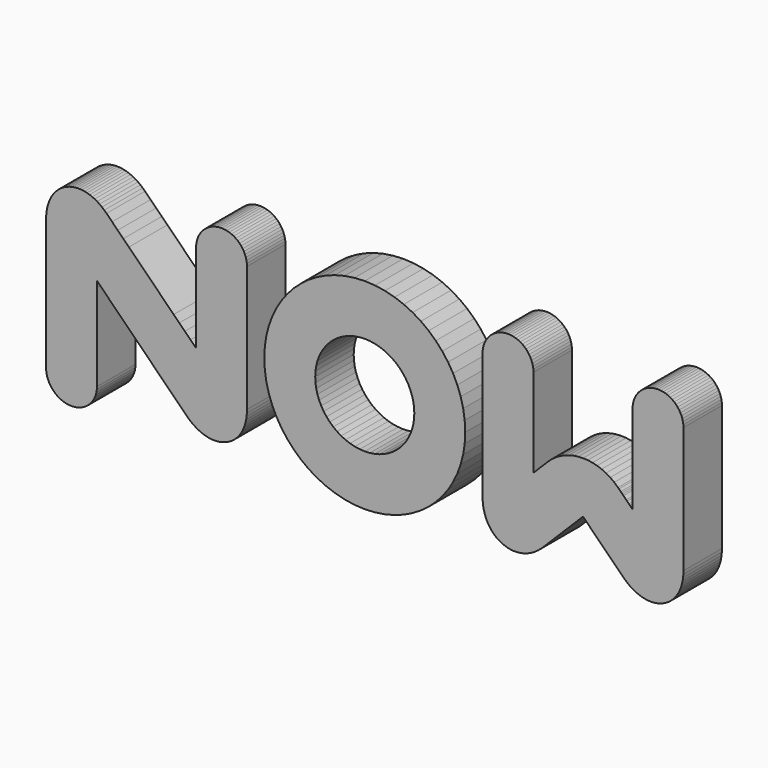
from build123d import *

# Parameters (mm, degrees)
F1_DEPTH = 1


with BuildPart() as f1:
    # F0 (on Front) → F1 (new body)
    with BuildSketch(Plane.XZ):
        Polygon((2.077737, 0.260535), (2.046042, 0.467585), (1.994365, 0.667573), (1.924085, 0.859465), (1.835891, 1.042055), (1.73116, 1.214138), (1.610926, 1.374851), (1.476223, 1.523335), (1.327739, 1.65821), (1.166853, 1.778616), (0.994599, 1.883347), (0.812009, 1.97137), (0.620461, 2.04165), (0.420301, 2.093154), (0.213251, 2.124849), (0, 2.135701), (-0.213252, 2.124849), (-0.420302, 2.093154), (-0.62029, 2.04165), (-0.812182, 1.97137), (-0.994599, 1.883347), (-1.166854, 1.778616), (-1.32774, 1.65821), (-1.476052, 1.523335), (-1.610927, 1.374851), (-1.731161, 1.214138), (-1.835892, 1.042055), (-1.924086, 0.859465), (-1.994366, 0.667573), (-2.04587, 0.467585), (-2.077565, 0.260535), (-2.088417, 0.047284), (-2.077565, -0.165795), (-2.04587, -0.37319), (-1.994366, -0.573006), (-1.924086, -0.764898), (-1.835892, -0.947488), (-1.731161, -1.119398), (-1.610927, -1.280284), (-1.476052, -1.428767), (-1.32774, -1.563815), (-1.166854, -1.684049), (-0.994599, -1.78878), (-0.812182, -1.87663), (-0.62029, -1.94691), (-0.420302, -1.998586), (-0.213252, -2.030281), (0, -2.041305), (0.213251, -2.030281), (0.420301, -1.998586), (0.620461, -1.94691), (0.812009, -1.87663), (0.994599, -1.78878), (1.166853, -1.684049), (1.327739, -1.563815), (1.476223, -1.428767), (1.610926, -1.280284), (1.73116, -1.119398), (1.835891, -0.947488), (1.924085, -0.764898), (1.994365, -0.573006), (2.046042, -0.37319), (2.077737, -0.165795), (2.088416, 0.047284), align=None)
        Polygon((1.030083, 0.047284), (1.024915, -0.057964), (1.009068, -0.160283), (0.983574, -0.258813), (0.949123, -0.353209), (0.905715, -0.44347), (0.854039, -0.528219), (0.794439, -0.607457), (0.727948, -0.680493), (0.654912, -0.747328), (0.575675, -0.806583), (0.490237, -0.85826), (0.400664, -0.901668), (0.305924, -0.936463), (0.207222, -0.961612), (0.105075, -0.97746), (0, -0.982972), (-0.105076, -0.97746), (-0.207223, -0.961612), (-0.305925, -0.936463), (-0.400493, -0.901668), (-0.49041, -0.85826), (-0.575504, -0.806583), (-0.654913, -0.747328), (-0.727949, -0.680493), (-0.794439, -0.607457), (-0.853867, -0.528219), (-0.905544, -0.44347), (-0.948952, -0.353209), (-0.983575, -0.258813), (-1.009069, -0.160283), (-1.024744, -0.057964), (-1.030084, 0.047284), (-1.024744, 0.152531), (-1.009069, 0.254679), (-0.983575, 0.353208), (-0.948952, 0.447776), (-0.905544, 0.537865), (-0.853867, 0.622787), (-0.794439, 0.702024), (-0.727949, 0.775232), (-0.654913, 0.841723), (-0.575504, 0.901151), (-0.49041, 0.952827), (-0.400493, 0.996235), (-0.305925, 1.031031), (-0.207223, 1.056352), (-0.105076, 1.072027), (0, 1.077367), (0.105075, 1.072027), (0.207222, 1.056352), (0.305924, 1.031031), (0.400664, 0.996235), (0.490237, 0.952827), (0.575675, 0.901151), (0.654912, 0.841723), (0.727948, 0.775232), (0.794439, 0.702024), (0.854039, 0.622787), (0.905715, 0.537865), (0.949123, 0.447776), (0.983574, 0.353208), (1.009068, 0.254679), (1.024915, 0.152531), align=None, mode=Mode.SUBTRACT)
        Polygon((-2.451875, 1.660794), (-2.459799, 1.713332), (-2.47289, 1.763975), (-2.490804, 1.812551), (-2.513025, 1.858887), (-2.539553, 1.902468), (-2.570042, 1.94312), (-2.604148, 1.980671), (-2.6417, 2.014778), (-2.682524, 2.045267), (-2.726104, 2.071794), (-2.772269, 2.094187), (-2.820845, 2.111929), (-2.87166, 2.125021), (-2.924197, 2.132945), (-2.978285, 2.135701), (-3.032373, 2.132945), (-3.084911, 2.125021), (-3.135726, 2.111929), (-3.184302, 2.094187), (-3.230466, 2.071794), (-3.274047, 2.045267), (-3.314871, 2.014778), (-3.352423, 1.980671), (-3.386529, 1.94312), (-3.417018, 1.902468), (-3.443546, 1.858887), (-3.465766, 1.812551), (-3.483681, 1.763975), (-3.496772, 1.713332), (-3.504696, 1.660794), (-3.507452, 1.606534), (-3.507452, 1.49164), (-3.507452, 1.376574), (-3.507452, 1.261508), (-3.507452, 1.146441), (-3.507452, 1.031375), (-3.507452, 0.916309), (-3.507452, 0.801243), (-3.507452, 0.686177), (-3.507452, 0.571111), (-3.507452, 0.456044), (-3.507452, 0.340978), (-3.507452, 0.225912), (-3.507452, 0.110846), (-3.507452, -0.00422), (-3.507452, -0.119287), (-3.507624, -0.234353), (-3.623896, -0.117909), (-3.740341, -0.001809), (-3.856613, 0.114635), (-3.972885, 0.23108), (-4.089329, 0.347524), (-4.205601, 0.463796), (-4.321873, 0.580068), (-4.438317, 0.696512), (-4.554761, 0.812956), (-4.671033, 0.929228), (-4.787305, 1.0455), (-4.903749, 1.161944), (-5.020194, 1.278216), (-5.136466, 1.394488), (-5.252738, 1.510933), (-5.369182, 1.627205), (-5.41638, 1.671646), (-5.464783, 1.712298), (-5.514393, 1.748816), (-5.564863, 1.781373), (-5.616367, 1.809795), (-5.668388, 1.834255), (-5.721098, 1.854581), (-5.774153, 1.870601), (-5.827379, 1.882486), (-5.880778, 1.890238), (-5.934177, 1.89351), (-5.987404, 1.892649), (-6.040286, 1.887309), (-6.092652, 1.877663), (-6.1445, 1.863366), (-6.195488, 1.844762), (-6.244753, 1.821852), (-6.291434, 1.795325), (-6.335359, 1.765181), (-6.376528, 1.731591), (-6.414768, 1.694556), (-6.45008, 1.654593), (-6.482464, 1.611357), (-6.511748, 1.565193), (-6.53793, 1.516445), (-6.56084, 1.464768), (-6.580305, 1.41068), (-6.596497, 1.354181), (-6.609416, 1.29527), (-6.618546, 1.234464), (-6.624058, 1.171591), (-6.625953, 1.106651), (-6.625953, 0.93698), (-6.625953, 0.767481), (-6.625953, 0.597982), (-6.625953, 0.428311), (-6.625953, 0.25864), (-6.625953, 0.089142), (-6.625953, -0.080357), (-6.625953, -0.249856), (-6.625953, -0.419699), (-6.625953, -0.589198), (-6.625953, -0.758696), (-6.625953, -0.92854), (-6.625953, -1.098038), (-6.625953, -1.267537), (-6.625953, -1.437036), (-6.625953, -1.606534), (-6.623196, -1.660967), (-6.615273, -1.713332), (-6.602181, -1.76432), (-6.584267, -1.812551), (-6.562046, -1.85906), (-6.535519, -1.902813), (-6.50503, -1.943465), (-6.470923, -1.980672), (-6.433372, -2.015123), (-6.392547, -2.045439), (-6.348967, -2.071967), (-6.302803, -2.09436), (-6.254227, -2.112274), (-6.203412, -2.125366), (-6.150874, -2.132945), (-6.096786, -2.135701), (-6.042698, -2.132945), (-5.99016, -2.125366), (-5.939345, -2.112274), (-5.890769, -2.09436), (-5.844605, -2.071967), (-5.801024, -2.045439), (-5.7602, -2.015123), (-5.722649, -1.980672), (-5.688542, -1.943465), (-5.658053, -1.902813), (-5.631526, -1.85906), (-5.609305, -1.812551), (-5.59139, -1.76432), (-5.578299, -1.713332), (-5.570375, -1.660967), (-5.567619, -1.606534), (-5.567619, -1.485611), (-5.567619, -1.364689), (-5.567619, -1.243766), (-5.567619, -1.122843), (-5.567619, -1.00192), (-5.567619, -0.880997), (-5.567619, -0.75973), (-5.567619, -0.638807), (-5.567619, -0.517884), (-5.567619, -0.396961), (-5.567619, -0.276038), (-5.567619, -0.154771), (-5.567619, -0.033848), (-5.567619, 0.087075), (-5.567619, 0.207997), (-5.567447, 0.32892), (-5.451175, 0.212476), (-5.334731, 0.096204), (-5.218459, -0.020068), (-5.102187, -0.136512), (-4.985743, -0.252956), (-4.869471, -0.369056), (-4.753199, -0.4855), (-4.636754, -0.601944), (-4.52031, -0.718389), (-4.404038, -0.834833), (-4.287766, -0.950933), (-4.171322, -1.067377), (-4.054878, -1.183477), (-3.938606, -1.299921), (-3.822334, -1.416365), (-3.70589, -1.532809), (-3.658692, -1.577251), (-3.610288, -1.617559), (-3.560679, -1.654077), (-3.510036, -1.68715), (-3.458704, -1.715399), (-3.406511, -1.740204), (-3.353801, -1.760186), (-3.300746, -1.776378), (-3.247347, -1.788435), (-3.193948, -1.796015), (-3.140549, -1.799115), (-3.087323, -1.798082), (-3.034441, -1.792569), (-2.982247, -1.782923), (-2.930571, -1.768798), (-2.879583, -1.750195), (-2.830319, -1.727113), (-2.783638, -1.70093), (-2.739713, -1.670613), (-2.698544, -1.636851), (-2.660303, -1.599989), (-2.624991, -1.560026), (-2.592607, -1.516962), (-2.563324, -1.470798), (-2.537141, -1.421877), (-2.514231, -1.370201), (-2.494766, -1.316113), (-2.478574, -1.259613), (-2.465655, -1.200702), (-2.456526, -1.140068), (-2.451014, -1.077023), (-2.449119, -1.011911), (-2.449119, -0.848269), (-2.449119, -0.684627), (-2.449119, -0.520985), (-2.449119, -0.357343), (-2.449119, -0.193701), (-2.449119, -0.030059), (-2.449119, 0.133583), (-2.449119, 0.297225), (-2.449119, 0.460867), (-2.449119, 0.62451), (-2.449119, 0.788152), (-2.449119, 0.951794), (-2.449119, 1.115436), (-2.449119, 1.279078), (-2.449119, 1.44272), (-2.449119, 1.606534), align=None)
        Polygon((6.625952, 1.606534), (6.623196, 1.660794), (6.615272, 1.713332), (6.602181, 1.763975), (6.584266, 1.812551), (6.561873, 1.858887), (6.53569, 1.902468), (6.505029, 1.94312), (6.470922, 1.980671), (6.433371, 2.014778), (6.392374, 2.045267), (6.348966, 2.071794), (6.302802, 2.094187), (6.254226, 2.111929), (6.203583, 2.125021), (6.150873, 2.132945), (6.096785, 2.135701), (6.042697, 2.132945), (5.989987, 2.125021), (5.939344, 2.111929), (5.890768, 2.094187), (5.844604, 2.071794), (5.801196, 2.045267), (5.760199, 2.014778), (5.722648, 1.980671), (5.688541, 1.94312), (5.65788, 1.902468), (5.631697, 1.858887), (5.609304, 1.812551), (5.59139, 1.763975), (5.578298, 1.713332), (5.570374, 1.660794), (5.567618, 1.606534), (5.567618, 1.49164), (5.567618, 1.376574), (5.567618, 1.261508), (5.567618, 1.146441), (5.567618, 1.031375), (5.567618, 0.916309), (5.567618, 0.801243), (5.567618, 0.686177), (5.567618, 0.571111), (5.567618, 0.456044), (5.567618, 0.340978), (5.567618, 0.225912), (5.567618, 0.110846), (5.567618, -0.00422), (5.567618, -0.119287), (5.567618, -0.234353), (5.54867, -0.215405), (5.529722, -0.196457), (5.510774, -0.177509), (5.491826, -0.158905), (5.472878, -0.139957), (5.45393, -0.121009), (5.435327, -0.102061), (5.416379, -0.083113), (5.397431, -0.064165), (5.378483, -0.045217), (5.359535, -0.026614), (5.340931, -0.007666), (5.321983, 0.011283), (5.303035, 0.030231), (5.284087, 0.049179), (5.265139, 0.067954), (5.18728, 0.138407), (5.103909, 0.199729), (5.016403, 0.251406), (4.924764, 0.293608), (4.830712, 0.326509), (4.73425, 0.350108), (4.636065, 0.364233), (4.537535, 0.368883), (4.439005, 0.364233), (4.34082, 0.350108), (4.244357, 0.326509), (4.150306, 0.293608), (4.058667, 0.251406), (3.971161, 0.199729), (3.88779, 0.138407), (3.809931, 0.067954), (3.790983, 0.049179), (3.772035, 0.030231), (3.753087, 0.011283), (3.734139, -0.007666), (3.715535, -0.026614), (3.696587, -0.045217), (3.677639, -0.064165), (3.658691, -0.083113), (3.639743, -0.102061), (3.620795, -0.121009), (3.601847, -0.139957), (3.583243, -0.158905), (3.564295, -0.177509), (3.545347, -0.196457), (3.526399, -0.215405), (3.507451, -0.234353), (3.507451, -0.119287), (3.507451, -0.00422), (3.507451, 0.110846), (3.507451, 0.225912), (3.507451, 0.340978), (3.507451, 0.456044), (3.507451, 0.571111), (3.507451, 0.686177), (3.507451, 0.801243), (3.507451, 0.916309), (3.507451, 1.031375), (3.507451, 1.146441), (3.507451, 1.261508), (3.507451, 1.376574), (3.507451, 1.49164), (3.507451, 1.606534), (3.504695, 1.660794), (3.496771, 1.713332), (3.48368, 1.763975), (3.465766, 1.812551), (3.443373, 1.858887), (3.41719, 1.902468), (3.386528, 1.94312), (3.352422, 1.980671), (3.31487, 2.014778), (3.273874, 2.045267), (3.230466, 2.071794), (3.184301, 2.094187), (3.135725, 2.111929), (3.085083, 2.125021), (3.032373, 2.132945), (2.978285, 2.135701), (2.924197, 2.132945), (2.871487, 2.125021), (2.820844, 2.111929), (2.772268, 2.094187), (2.726104, 2.071794), (2.682695, 2.045267), (2.641699, 2.014778), (2.604147, 1.980671), (2.570041, 1.94312), (2.539379, 1.902468), (2.513197, 1.858887), (2.490804, 1.812551), (2.472889, 1.763975), (2.459798, 1.713332), (2.451874, 1.660794), (2.449118, 1.606534), (2.449118, 1.44272), (2.449118, 1.279078), (2.449118, 1.115436), (2.449118, 0.951794), (2.449118, 0.788152), (2.449118, 0.62451), (2.449118, 0.460867), (2.449118, 0.297225), (2.449118, 0.133583), (2.449118, -0.030059), (2.449118, -0.193701), (2.449118, -0.357343), (2.449118, -0.520985), (2.449118, -0.684627), (2.449118, -0.848269), (2.449118, -1.011911), (2.451185, -1.077023), (2.456697, -1.140068), (2.465654, -1.200702), (2.478746, -1.259613), (2.494593, -1.316113), (2.51423, -1.370201), (2.537312, -1.421877), (2.563495, -1.470798), (2.592434, -1.516962), (2.624818, -1.560026), (2.660302, -1.599989), (2.698543, -1.636851), (2.739884, -1.670613), (2.783637, -1.70093), (2.830146, -1.727113), (2.879755, -1.750195), (2.930742, -1.768798), (2.982419, -1.782923), (3.034784, -1.792569), (3.087839, -1.798082), (3.140893, -1.798771), (3.194292, -1.79567), (3.247691, -1.787746), (3.300746, -1.776033), (3.3538, -1.760186), (3.406855, -1.739515), (3.458531, -1.715399), (3.510207, -1.686805), (3.560506, -1.654077), (3.610115, -1.617559), (3.658691, -1.576907), (3.705889, -1.532809), (3.75791, -1.480788), (3.809931, -1.428767), (3.861952, -1.376746), (3.913973, -1.324726), (3.965649, -1.272705), (4.01767, -1.220684), (4.069691, -1.168663), (4.121712, -1.116642), (4.173733, -1.064965), (4.225754, -1.012944), (4.277775, -0.960923), (4.329451, -0.908902), (4.381472, -0.856882), (4.433493, -0.804861), (4.485514, -0.75284), (4.537535, -0.701163), (4.589556, -0.75284), (4.641577, -0.804861), (4.693598, -0.856882), (4.745619, -0.908902), (4.797295, -0.960923), (4.849316, -1.012944), (4.901337, -1.064965), (4.953358, -1.116642), (5.005379, -1.168663), (5.0574, -1.220684), (5.109421, -1.272705), (5.161097, -1.324726), (5.213118, -1.376746), (5.265139, -1.428767), (5.31716, -1.480788), (5.369181, -1.532809), (5.402254, -1.564504), (5.436016, -1.594132), (5.470467, -1.622037), (5.505262, -1.647875), (5.540747, -1.671991), (5.576576, -1.693695), (5.612749, -1.713677), (5.649612, -1.731247), (5.686474, -1.747094), (5.723337, -1.760875), (5.760888, -1.772588), (5.79844, -1.782234), (5.835991, -1.789813), (5.873543, -1.794981), (5.911439, -1.798082), (5.948646, -1.79946), (5.964493, -1.799115), (5.980341, -1.798771), (5.995844, -1.797737), (6.011347, -1.796359), (6.027194, -1.794637), (6.042697, -1.792569), (6.0582, -1.789813), (6.073703, -1.787057), (6.089206, -1.783612), (6.104364, -1.780167), (6.119867, -1.776033), (6.13537, -1.771899), (6.150529, -1.767076), (6.165687, -1.761564), (6.180845, -1.756051), (6.195315, -1.750195), (6.244924, -1.727113), (6.291433, -1.70093), (6.335186, -1.670613), (6.376527, -1.636851), (6.414767, -1.599989), (6.450252, -1.560026), (6.482636, -1.516962), (6.511575, -1.470798), (6.537757, -1.421877), (6.560839, -1.370201), (6.580476, -1.316113), (6.596324, -1.259613), (6.609415, -1.200702), (6.618373, -1.140068), (6.623885, -1.077023), (6.625952, -1.011911), (6.625952, -0.848269), (6.625952, -0.684627), (6.625952, -0.520985), (6.625952, -0.357343), (6.625952, -0.193701), (6.625952, -0.030059), (6.625952, 0.133583), (6.625952, 0.297225), (6.625952, 0.460867), (6.625952, 0.62451), (6.625952, 0.788152), (6.625952, 0.951794), (6.625952, 1.115436), (6.625952, 1.279078), (6.625952, 1.44272), align=None)
    extrude(amount=F1_DEPTH)


solid = f1.part
